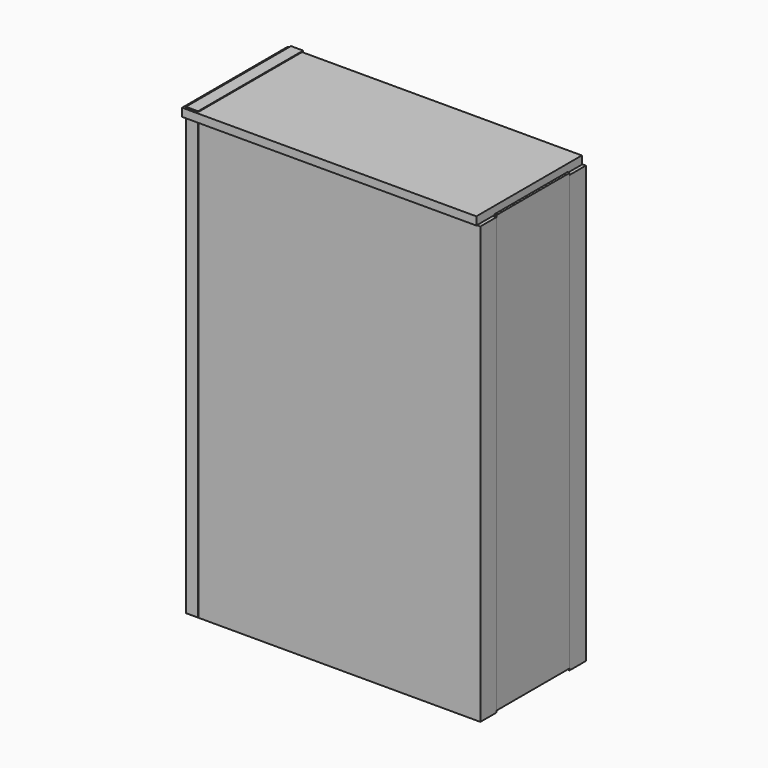
from build123d import *

# Parameters (mm, degrees)
F0_W     = 36.83
F0_H     = 54.61
F3_DEPTH = 2.54
F4_START = -11.43
F2_W     = 36.83
F2_H     = 54.61
F4_DEPTH = 2.54
F5_START = 16.891
F1_W     = 11.43
F1_H     = 54.61
F5_DEPTH = 1.524
F7_START = 27.432
F6_W     = 36.83
F6_H     = 16.51
F7_DEPTH = 1.016
F9_START = -16.891
F8_W     = 16.4478868246
F8_H     = 55.7400621474
F9_DEPTH = 1.524


with BuildPart() as f3:
    # F0 (on Front) → F3 (new body)
    with BuildSketch(Plane.XZ):
        Rectangle(F0_W, F0_H)
    extrude(amount=F3_DEPTH)


with BuildPart() as f4:
    # F2 (on Front) → F4 (new body)
    with BuildSketch(Plane.XZ.offset(F4_START)):
        Rectangle(F2_W, F2_H)
    extrude(amount=-F4_DEPTH)


with BuildPart() as f5:
    # F1 (on Right) → F5 (new body)
    with BuildSketch(Plane.YZ.offset(F5_START)):
        with Locations((5.715, 0.2239052389)):
            Rectangle(F1_W, F1_H)
    extrude(amount=F5_DEPTH)


with BuildPart() as f7:
    # F6 (on Top) → F7 (new body)
    with BuildSketch(Plane.XY.offset(F7_START)):
        with Locations((-0.2812305465, 5.4336267127)):
            Rectangle(F6_W, F6_H)
    extrude(amount=F7_DEPTH)


with BuildPart() as f9:
    # F8 (on Right) → F9 (new body)
    with BuildSketch(Plane.YZ.offset(F9_START)):
        with Locations((5.6349243969, 0.6760600954)):
            Rectangle(F8_W, F8_H)
    extrude(amount=-F9_DEPTH)


solid = Compound([f3.part, f4.part, f5.part, f7.part, f9.part])
